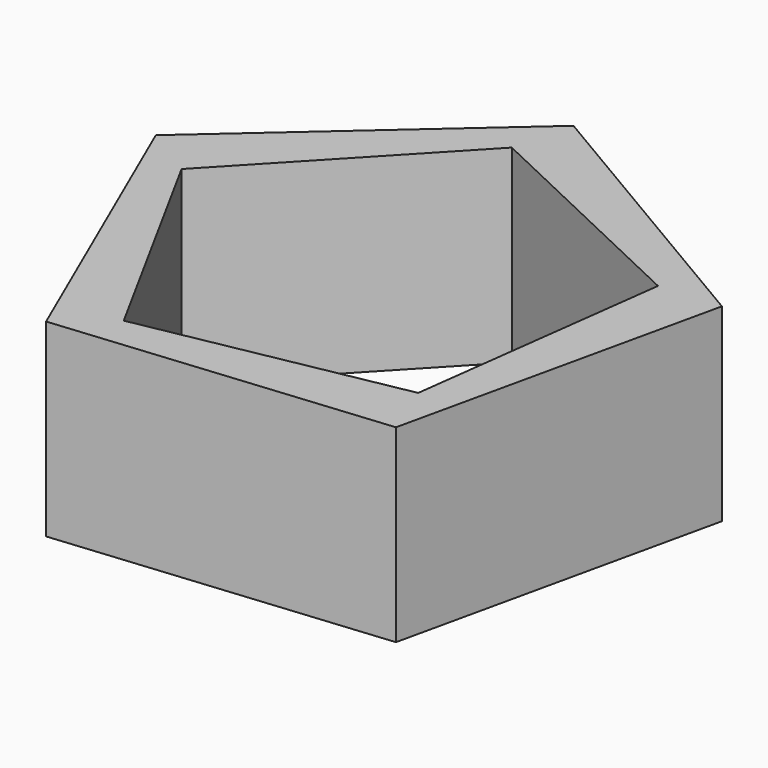
from build123d import *

# Parameters (mm, degrees)
F1_DEPTH = 25.4
F2_DEPTH = 25.4
F4_DEPTH = 25.4
F5_DEPTH = 25.4


with BuildPart() as f1:
    # F0 (on Top) → F1 (new body)
    with BuildSketch(Plane.XY):
        Polygon((68.424131, 29.676452), (-7.079764, 74.245743), (-72.799666, 16.209941), (-37.912904, -64.227449), (49.368203, -55.904687), align=None)
    extrude(amount=F1_DEPTH)

    # F1_face (on face) → F2 (join)
    with BuildSketch(Plane(origin=(0, 0, 0), x_dir=(1, 0, 0), z_dir=(0, 0, -1))):
        Polygon((68.424131, -29.676452), (49.368203, 55.904687), (-37.912904, 64.227449), (-72.799666, -16.209941), (-7.079764, -74.245743), align=None)
    extrude(amount=F2_DEPTH)

    # F3 (on face) → F4 (cut)
    with BuildSketch(Plane.XY.offset(25.4)):
        Polygon((52.176996, 28.531717), (-11.011697, 58.440058), (-58.982599, 7.586225), (-25.441554, -53.751513), (43.258854, -40.806487), align=None)
    extrude(amount=-F4_DEPTH, mode=Mode.SUBTRACT)

    # F4_face (on face) → F5 (cut)
    with BuildSketch(Plane.XY):
        Polygon((52.176996, 28.531717), (-11.011697, 58.440058), (-58.982599, 7.586225), (-25.441554, -53.751513), (43.258854, -40.806487), align=None)
    extrude(amount=-F5_DEPTH, mode=Mode.SUBTRACT)


solid = f1.part
